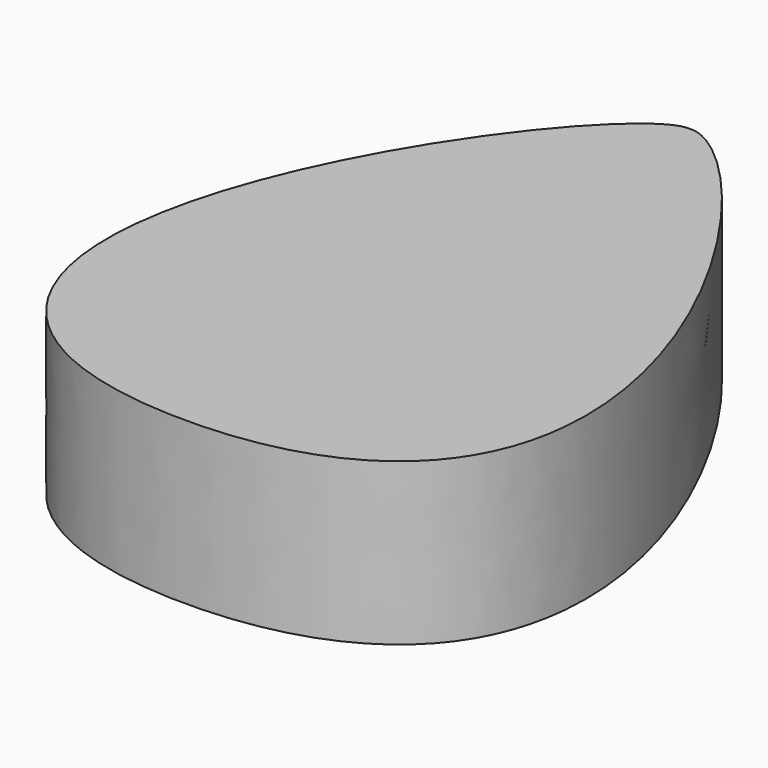
from build123d import *

# Parameters (mm, degrees)
PAD_DEPTH = 0.8


with BuildPart() as part:
    # Sketch → Pad (new body)
    with BuildSketch(Plane.XY):
        with BuildLine():
            add(Edge.make_bspline(
                [(0, 3.028295), (0.397691, 3.063509), (2.226819, 0.451424), (0.964069, -0.099677), (0, -0.099677)],
                knots=[0, 0, 0, 0, 0, 1, 1, 1, 1, 1], degree=4))
            add(Edge.make_bspline(
                [(0, 3.028295), (-0.397691, 3.063509), (-2.226819, 0.451424), (-0.964069, -0.099677), (0, -0.099677)],
                knots=[0, 0, 0, 0, 0, 1, 1, 1, 1, 1], degree=4))
        make_face()
    extrude(amount=PAD_DEPTH)


solid = part.part
